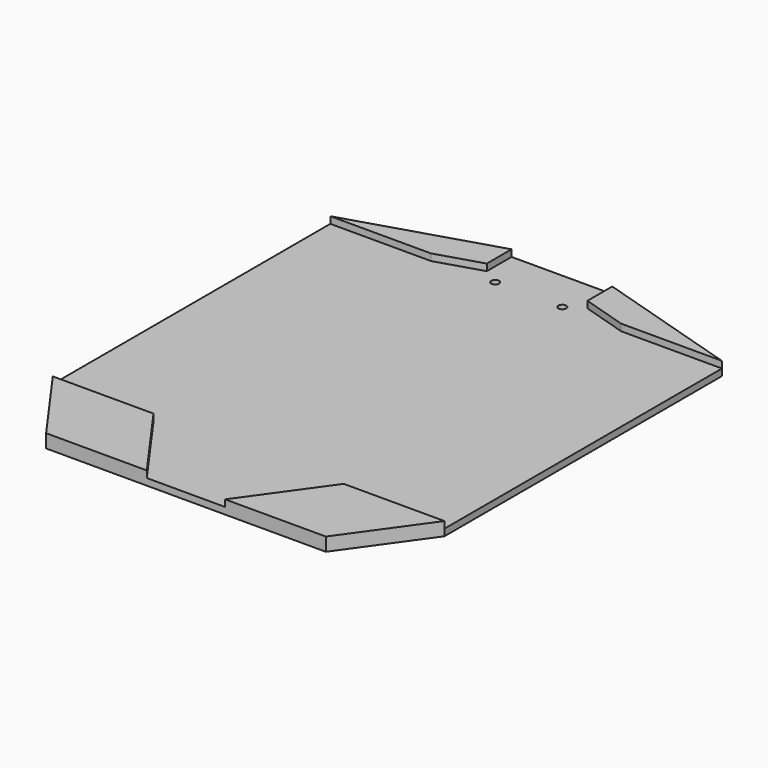
from build123d import *

# Parameters (mm, degrees)
F0_R     = 1.75
F1_DEPTH = 3
F3_DEPTH = 3


with BuildPart() as f1:
    # F0 (on Top) → F1 (new body)
    with BuildSketch(Plane.XY):
        Polygon((22.5, 20), (0, 20), (-22.5, 20), (-87.5, 0), (-87.5, -155), (-62.5, -190), (0, -190), (62.5, -190), (87.5, -155), (87.5, 0), align=None)
        with Locations((-15, 1.5)):
            Circle(F0_R, mode=Mode.SUBTRACT)
        with Locations((15, 1.5)):
            Circle(F0_R, mode=Mode.SUBTRACT)
    extrude(amount=F1_DEPTH)

    # F2 (on face) → F3 (join)
    with BuildSketch(Plane.XY.offset(3)):
        Polygon((-22.5, 6.153846), (-22.5, 20), (-87.5, 0), (-42.5, 0), align=None)
        Polygon((-42.5, -155), (-87.5, -155), (-62.5, -190), (-17.5, -190), align=None)
        Polygon((22.5, 20), (22.5, 6.153846), (42.5, 0), (87.5, 0), align=None)
        Polygon((87.5, -155), (42.5, -155), (17.5, -190), (62.5, -190), align=None)
    extrude(amount=F3_DEPTH)


solid = f1.part
